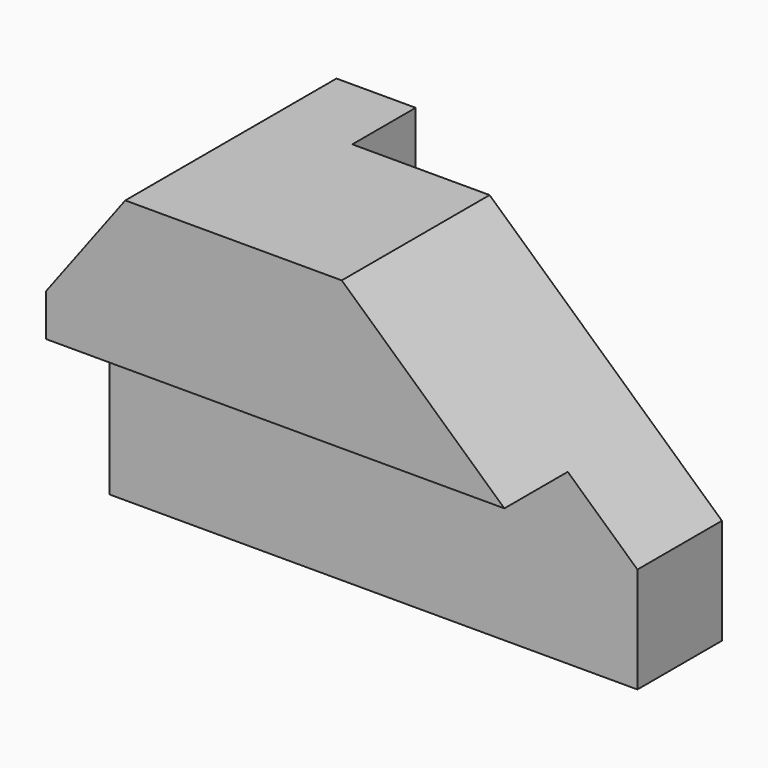
from build123d import *

# Parameters (mm, degrees)
F0_W     = 100
F0_H     = 60
F1_DEPTH = 50
F2_W     = 15
F2_H     = 32
F3_DEPTH = 100.001
F4_W     = 70
F4_H     = 15
F5_DEPTH = 60.001
F6_SIZE2 = 15
F6_SIZE  = 20
F7_SIZE2 = 40
F7_SIZE  = 44


with BuildPart() as f1:
    # F0 (on Front) → F1 (new body)
    with BuildSketch(Plane.XZ):
        with Locations((50, 30)):
            Rectangle(F0_W, F0_H)
    extrude(amount=F1_DEPTH)

    # F2 (on face) → F3 (cut, through all)
    with BuildSketch(Plane.YZ.offset(100)):
        with Locations((-42.5, 16)):
            Rectangle(F2_W, F2_H)
    extrude(amount=-F3_DEPTH, mode=Mode.SUBTRACT)

    # F4 (on face) → F5 (cut, through all)
    with BuildSketch(Plane.XY.offset(60)):
        with Locations((65, -7.5)):
            Rectangle(F4_W, F4_H)
    extrude(amount=-F5_DEPTH, mode=Mode.SUBTRACT)

    # F6
    f6_edges = [f1.edges().sort_by_distance(p)[0] for p in [
        (0, -25, 60),
    ]]
    chamfer(f6_edges, length=F6_SIZE, length2=F6_SIZE2)

    # F7
    f7_edges = [f1.edges().sort_by_distance(p)[0] for p in [
        (100, -32.5, 60),
    ]]
    chamfer(f7_edges, length=F7_SIZE, length2=F7_SIZE2)


solid = f1.part
